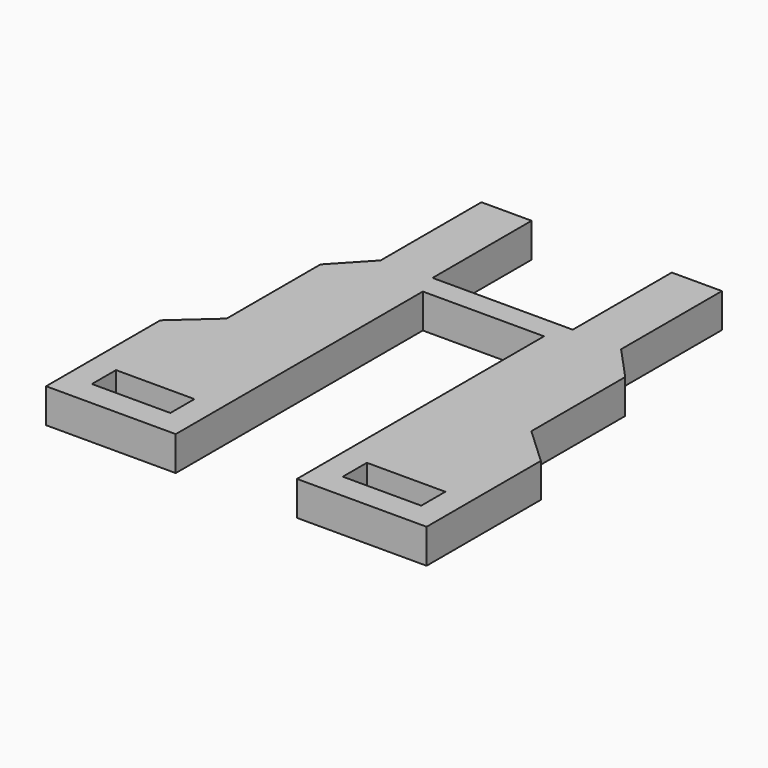
from build123d import *

# Parameters (mm, degrees)
F0_W     = 5.21
F0_H     = 2
F1_DEPTH = 2.28


with BuildPart() as f1:
    # F0 (on Top) → F1 (new body)
    with BuildSketch(Plane.XY):
        Polygon((12.053386, -12.54), (5.908386, -12.54), (5.908386, -22.02), (14.518386, -22.02), (14.518386, -12.54), align=None)
        with Locations((10.213386, -19.34)):
            Rectangle(F0_W, F0_H, mode=Mode.SUBTRACT)
        Polygon((-2.141614, -22.02), (-2.141614, -12.54), (-8.186614, -12.54), (-10.751614, -12.54), (-10.751614, -22.02), align=None)
        with Locations((-6.446614, -19.34)):
            Rectangle(F0_W, F0_H, mode=Mode.SUBTRACT)
        Polygon((-8.186614, -12.54), (-8.186614, -10.24), (-10.751614, -12.54), align=None)
        Polygon((-2.141614, -2.45), (-6.031614, -2.45), (-8.186614, -2.45), (-8.186614, -10.24), (-8.186614, -12.54), (-2.141614, -12.54), align=None)
        Polygon((-6.031614, -2.45), (-6.031614, -0.15), (-8.186614, -2.45), align=None)
        Polygon((6.608386, 0), (-2.701614, 0), (-2.701614, 8.22), (-6.031614, 8.22), (-6.031614, -0.15), (-6.031614, -2.45), (-2.141614, -2.45), (-2.141614, -1.51), (5.908386, -1.51), (5.908386, -2.45), (9.938386, -2.45), (9.938386, -0.15), (9.938386, 8.22), (6.608386, 8.22), align=None)
        Polygon((12.053386, -2.45), (9.938386, -2.45), (5.908386, -2.45), (5.908386, -12.54), (12.053386, -12.54), (12.053386, -10.24), align=None)
        Polygon((12.053386, -2.45), (9.938386, -0.15), (9.938386, -2.45), align=None)
        Polygon((14.518386, -12.54), (12.053386, -10.24), (12.053386, -12.54), align=None)
    extrude(amount=F1_DEPTH)


solid = f1.part
